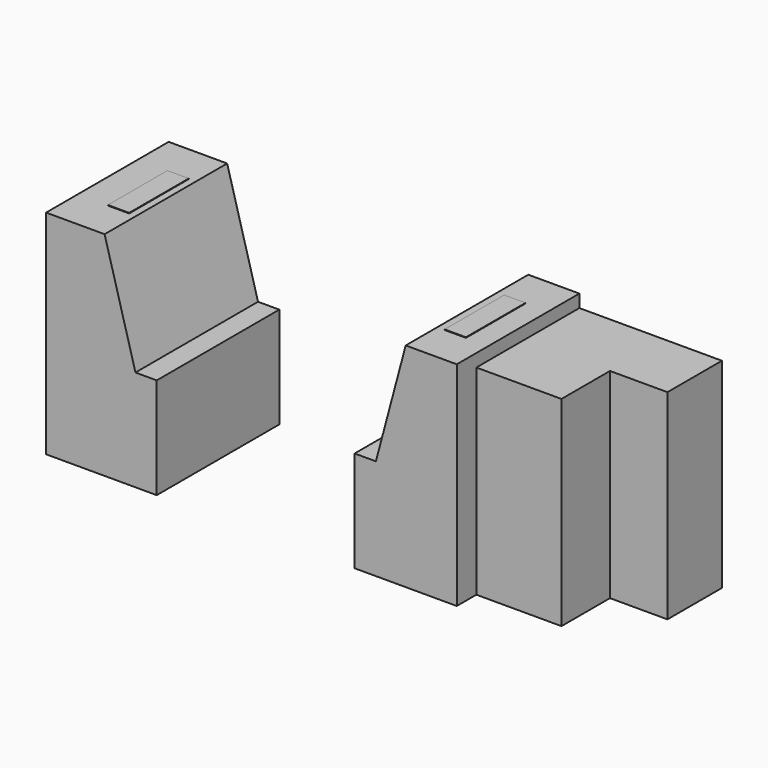
from build123d import *

# Parameters (mm, degrees)
F0_W     = 1340
F0_H     = 1880
F1_DEPTH = 1440
F3_DEPTH = 2080
F4_W     = 200
F4_H     = 700
F5_DEPTH = 5


with BuildPart() as f1:
    # F0 (on Front) → F1 (new body)
    with BuildSketch(Plane.XZ):
        Polygon((0, 2000), (0, 0), (1040, 0), (1040, 950), (840, 950), (550, 2000), align=None)
        Polygon((3860, 1880), (3860, 2000), (3380, 2000), (3100, 950), (2900, 950), (2900, 0), (3860, 0), align=None)
        with Locations((4530, 940)):
            Rectangle(F0_W, F0_H)
    extrude(amount=F1_DEPTH)

    # F2 (on face) → F3 (cut)
    with BuildSketch(Plane.XY.offset(1880)):
        Polygon((3860, -1210), (3860, -1440), (5200, -1440), (5200, -640), (4660, -640), (4660, -1210), align=None)
    extrude(amount=-F3_DEPTH, mode=Mode.SUBTRACT)


with BuildPart() as f5:
    # F4 (on face) → F5 (new body)
    with BuildSketch(Plane.XY.offset(2000)):
        with Locations((385, -720)):
            Rectangle(F4_W, F4_H)
        with Locations((3550, -720)):
            Rectangle(F4_W, F4_H)
    extrude(amount=F5_DEPTH)


solid = Compound([f1.part, f5.part])
